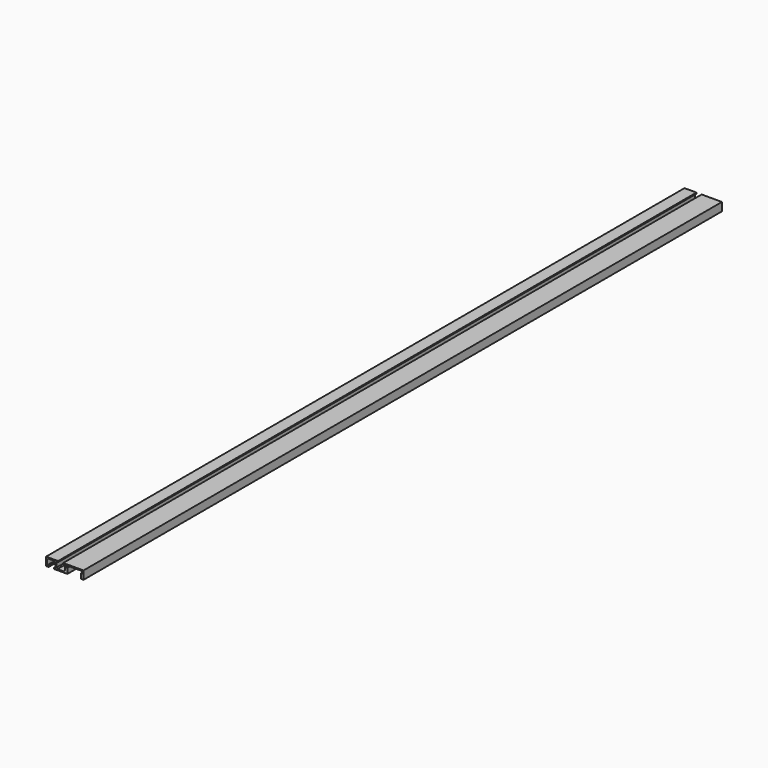
from build123d import *

# Parameters (mm, degrees)
F1_DEPTH  = 1219.2
F2_SIZE   = 1.5875
F5_W      = 34.925
F5_H      = 12.7
F6_DEPTH  = 1219.201
F9_DEPTH  = 1219.201
F10_W     = 2.38125
F10_H     = 6.35
F11_DEPTH = 1219.2


with BuildPart() as f1:
    # F0 (on Front) → F1 (new body)
    with BuildSketch(Plane.XZ):
        Polygon((0, 1.5875), (0, 0), (10.31875, 0), (10.31875, 1.5875), (7.9375, 1.5875), (7.9375, 11.1125), (14.2875, 11.1125), (14.2875, 12.7), (3.96875, 12.7), (3.96875, 11.1125), (6.35, 11.1125), (6.35, 1.5875), align=None)
    extrude(amount=F1_DEPTH)

    # F2
    f2_edges = [f1.edges().sort_by_distance(p)[0] for p in [
        (6.35, -609.6, 1.5875),
        (7.9375, -609.6, 11.1125),
    ]]
    chamfer(f2_edges, length=F2_SIZE)

    # F3: F1 across face


with BuildPart() as f1_1:
    add(f1.part)
    add(f1.part.mirror(Plane(origin=(14.2875, -609.6, 11.90625), x_dir=(0, 1, 0), z_dir=(1, 0, 0))))

    # F4: F1 across face


with BuildPart() as f1_2:
    add(f1_1.part)
    add(f1_1.part.mirror(Plane(origin=(28.575, -609.6, 0.79375), x_dir=(0, 1, 0), z_dir=(1, 0, 0))))

    # F5 (on face) → F6 (cut, through all)
    with BuildSketch(Plane.XZ.offset(1219.2)):
        with Locations((39.6875, 6.35)):
            Rectangle(F5_W, F5_H)
    extrude(amount=-F6_DEPTH, mode=Mode.SUBTRACT)

    # F7: F1 across face


with BuildPart() as f1_3:
    add(f1_2.part)
    add(f1_2.part.mirror(Plane(origin=(0, -609.6, 0.79375), x_dir=(0, -1, 0), z_dir=(-1, 0, 0))))

    # F8 (on face) → F9 (cut, through all)
    with BuildSketch(Plane.XZ.offset(1219.2)):
        Polygon((7.9375, 12.7), (7.9375, 9.525), (9.525, 11.1125), (19.05, 11.1125), (20.6375, 9.525), (20.6375, 1.5875), (18.25625, 1.5875), (18.25625, 0), (22.225, 0), (22.225, 12.7), align=None)
    extrude(amount=-F9_DEPTH, mode=Mode.SUBTRACT)

    # F10 (on face) → F11 (join, through all)
    with BuildSketch(Plane.XZ.offset(1219.2)):
        Polygon((34.925, 12.7), (7.9375, 12.7), (7.9375, 11.1125), (33.3375, 11.1125), (33.3375, 7.9375), (30.95625, 7.9375), (30.95625, 0), (34.925, 0), align=None)
        with Locations((9.128125, 4.7625)):
            Rectangle(F10_W, F10_H)
    extrude(amount=-F11_DEPTH)


solid = f1_3.part
